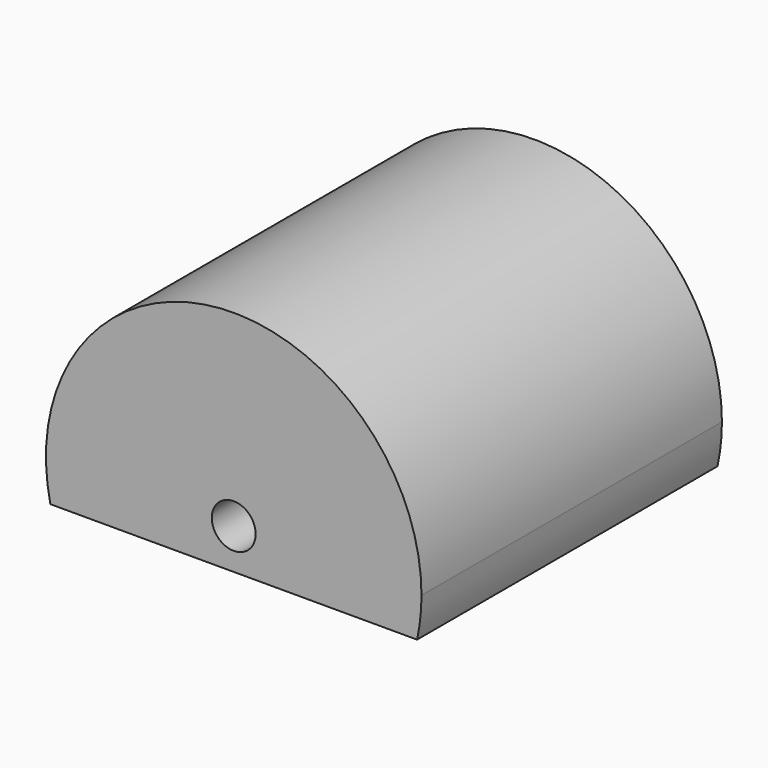
from build123d import *

# Parameters (mm, degrees)
F0_R     = 1.11125
F1_DEPTH = 19.05


with BuildPart() as f1:
    # F0 (on Front) → F1 (new body)
    with BuildSketch(Plane.XZ):
        with BuildLine():
            ThreePointArc((-20.005139, 38.690257), (-19.83773, 39.709673), (-19.781707, 40.741224))
            ThreePointArc((-19.781707, 40.741224), (-30.338258, 50.210201), (-38.608274, 38.690257))
            Line((-38.608274, 38.690257), (-20.005139, 38.690257))
        make_face()
        with Locations((-29.306707, 40.741224)):
            Circle(F0_R, mode=Mode.SUBTRACT)
    extrude(amount=F1_DEPTH)


solid = f1.part
